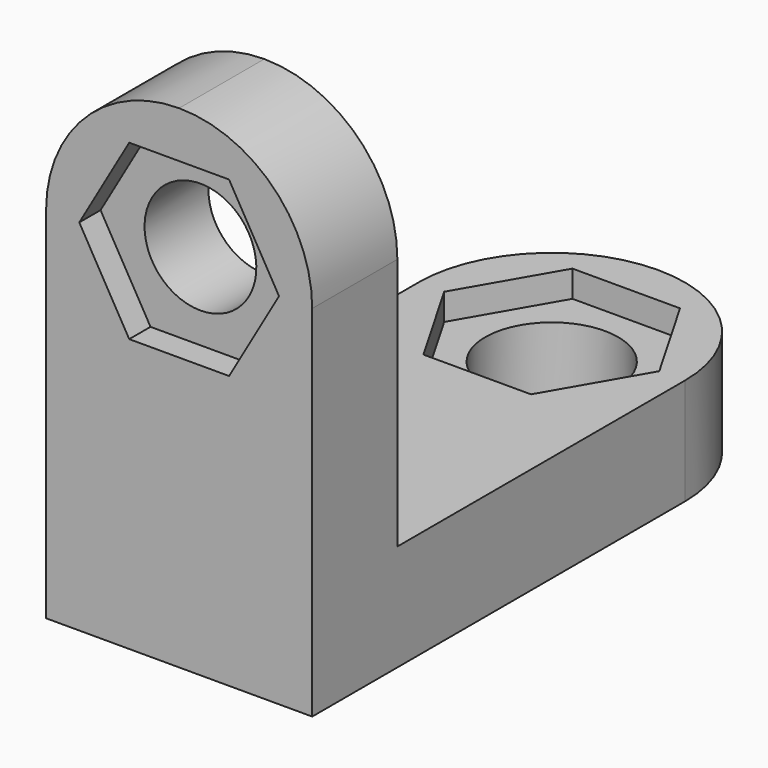
from build123d import *

# Parameters (mm, degrees)
PAD_DEPTH       = 8
PAD001_DEPTH    = 8
POCKET_DEPTH    = 2
POCKET001_DEPTH = 2


with BuildPart() as part:
    # Sketch → Pad (new body)
    with BuildSketch(Plane.XY):
        with BuildLine():
            ThreePointArc((0, 30), (5, 35), (0, 40))
            Line((0, 40), (0, 45))
            ThreePointArc((10, 35.000023), (7.07106, 42.071076), (0, 45))
            Line((10, 35.000023), (10, 0))
            Line((10, 0), (0, 0))
            Line((0, 0), (0, 30))
        make_face()
    pad = extrude(amount=PAD_DEPTH)

    # Sketch001 → Pad001 (join)
    with BuildSketch(Plane.XZ):
        with BuildLine():
            Line((0, 0), (10, 0))
            Line((10, 0), (10, 27))
            ThreePointArc((10, 27), (7.071068, 34.071068), (0, 37))
            Line((0, 31.2), (0, 37))
            ThreePointArc((0, 22.8), (4.2, 27), (0, 31.2))
            Line((0, 22.8), (0, 0))
        make_face()
    pad001 = extrude(amount=-PAD001_DEPTH)

    # Sketch002 → Pocket (cut)
    with BuildSketch(Plane(origin=(0, 35, 8), x_dir=(1, 0, 0), z_dir=(0, 0, 1))):
        Polygon((8.082904, 0), (4.041452, 7), (-4.041452, 7), (-8.082904, 0), (-4.041452, -7), (4.041452, -7), align=None)
    pocket = extrude(amount=-POCKET_DEPTH, mode=Mode.SUBTRACT)

    # Sketch003 → Pocket001 (cut)
    with BuildSketch(Plane(origin=(0, 0, 27), x_dir=(1, 0, 0), z_dir=(0, -1, 0))):
        Polygon((3.752777, 6.5), (-3.752777, 6.5), (-7.505553, 0), (-3.752777, -6.5), (3.752777, -6.5), (7.505553, 0), align=None)
    pocket001 = extrude(amount=-POCKET001_DEPTH, mode=Mode.SUBTRACT)

    # Mirrored: Pad, Pad001, Pocket, Pocket001 across Sketch V_Axis
    add(pad.mirror(Plane(origin=(0, 0, 0), x_dir=(0, 0, 1), z_dir=(1, 0, 0))))
    add(pad001.mirror(Plane(origin=(0, 0, 0), x_dir=(0, 0, 1), z_dir=(1, 0, 0))))
    add(pocket.mirror(Plane(origin=(0, 0, 0), x_dir=(0, 0, 1), z_dir=(1, 0, 0))), mode=Mode.SUBTRACT)
    add(pocket001.mirror(Plane(origin=(0, 0, 0), x_dir=(0, 0, 1), z_dir=(1, 0, 0))), mode=Mode.SUBTRACT)


solid = part.part
